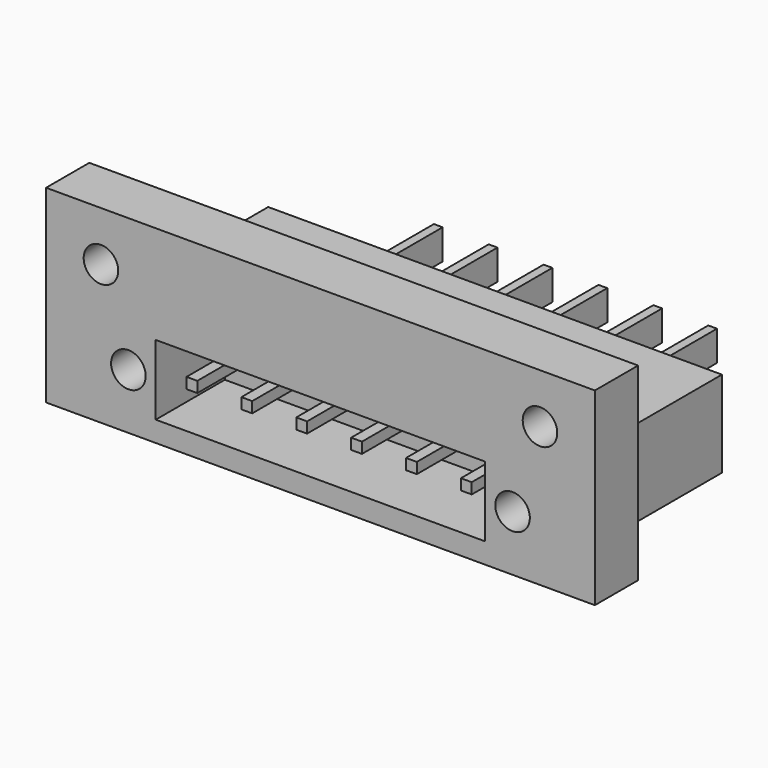
from build123d import *

# Parameters (mm, degrees)
F0_W      = 50.8
F0_H      = 17.5
F1_DEPTH  = 5
F3_W      = 42
F3_H      = 8
F4_DEPTH  = 15.2
F2_W      = 30.5
F2_H      = 6.5
F5_DEPTH  = 8
F7_D      = 3.2
F8_W      = 1
F8_H      = 1
F9_DEPTH  = 7
F10_W     = 0.8128
F10_H     = 2.794
F11_DEPTH = 9.3


with BuildPart() as f1:
    # F0 (on Front) → F1 (new body)
    with BuildSketch(Plane.XZ):
        Rectangle(F0_W, F0_H)
    extrude(amount=F1_DEPTH)

    # F3 (on face) → F4 (join)
    with BuildSketch(Plane(origin=(0, 0, 0), x_dir=(-1, 0, 0), z_dir=(0, 1, 0))):
        with Locations((0, -3.6)):
            Rectangle(F3_W, F3_H)
    extrude(amount=F4_DEPTH)

    # F2 (on face) → F5 (cut)
    with BuildSketch(Plane.XZ.offset(5)):
        with Locations((0, -3.6)):
            Rectangle(F2_W, F2_H)
    extrude(amount=-F5_DEPTH, mode=Mode.SUBTRACT)

    # F7 (through all)
    with Locations(Plane.XZ.offset(5)):
        with Locations((-20.32, 4.15), (-17.78, -3.6), (20.32, 4.15), (17.78, -3.6)):
            Hole(F7_D / 2)


with BuildPart() as f9:
    # F8 (on face) → F9 (new body)
    with BuildSketch(Plane.XZ.offset(-3)):
        with Locations((-12.7, -3.6)):
            Rectangle(F8_W, F8_H)
        with Locations((-7.62, -3.6)):
            Rectangle(F8_W, F8_H)
        with Locations((2.54, -3.6)):
            Rectangle(F8_W, F8_H)
        with Locations((-2.54, -3.6)):
            Rectangle(F8_W, F8_H)
        with Locations((7.62, -3.6)):
            Rectangle(F8_W, F8_H)
        with Locations((12.7, -3.6)):
            Rectangle(F8_W, F8_H)
    extrude(amount=F9_DEPTH)


with BuildPart() as f11:
    # F10 (on face) → F11 (new body)
    with BuildSketch(Plane(origin=(0, 15.2, 0), x_dir=(-1, 0, 0), z_dir=(0, 1, 0))):
        with Locations((-12.7, -3.6)):
            Rectangle(F10_W, F10_H)
        with Locations((-7.62, -3.6)):
            Rectangle(F10_W, F10_H)
        with Locations((-2.54, -3.6)):
            Rectangle(F10_W, F10_H)
        with Locations((2.54, -3.6)):
            Rectangle(F10_W, F10_H)
        with Locations((7.62, -3.6)):
            Rectangle(F10_W, F10_H)
        with Locations((12.7, -3.6)):
            Rectangle(F10_W, F10_H)
    extrude(amount=F11_DEPTH)


solid = Compound([f1.part, f9.part, f11.part])
